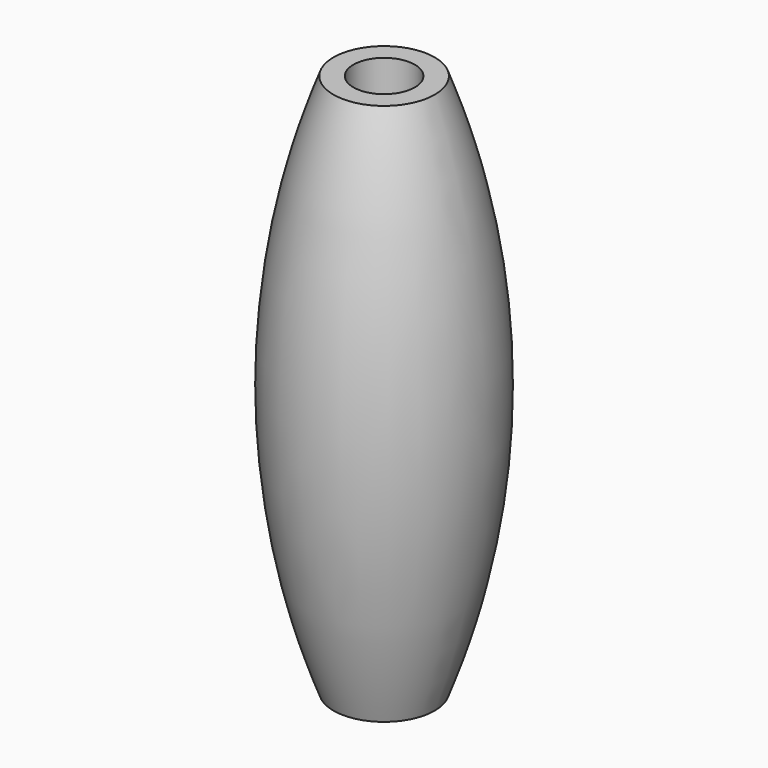
from build123d import *


with BuildPart() as f1:
    # F0 (on Front) → F1 (revolve)
    with BuildSketch(Plane.XZ):
        with BuildLine():
            ThreePointArc((7, -37.5), (13.924774, 0), (7, 37.5))
            Line((7, 37.5), (4.25, 37.5))
            Line((4.25, 37.5), (4.25, -32.5))
            Line((4.25, -32.5), (5.25, -32.5))
            Line((5.25, -32.5), (5.25, -37.5))
            Line((5.25, -37.5), (7, -37.5))
        make_face()
    revolve(axis=Axis((0, 0, 0.547577), (0, 0, 1)))


solid = f1.part
